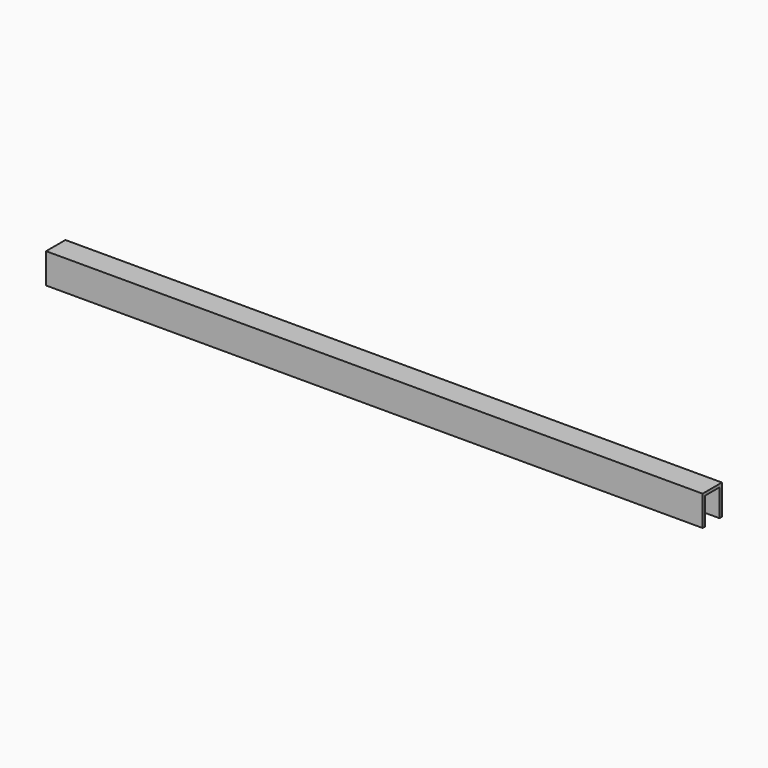
from build123d import *

# Parameters (mm, degrees)
F0_W     = 1378.6104
F0_H     = 63.5
F1_DEPTH = 50.8
F2_W     = 38.1
F2_H     = 57.15
F3_DEPTH = 1378.6114


with BuildPart() as f1:
    # F0 (on Front) → F1 (new body)
    with BuildSketch(Plane.XZ):
        with Locations((-689.3052, 31.75)):
            Rectangle(F0_W, F0_H)
    extrude(amount=F1_DEPTH)

    # F2 (on face) → F3 (cut, through all)
    with BuildSketch(Plane(origin=(-1378.6104, 0, 0), x_dir=(0, -1, 0), z_dir=(-1, 0, 0))):
        with Locations((25.4, 28.575)):
            Rectangle(F2_W, F2_H)
    extrude(amount=-F3_DEPTH, mode=Mode.SUBTRACT)


solid = f1.part
